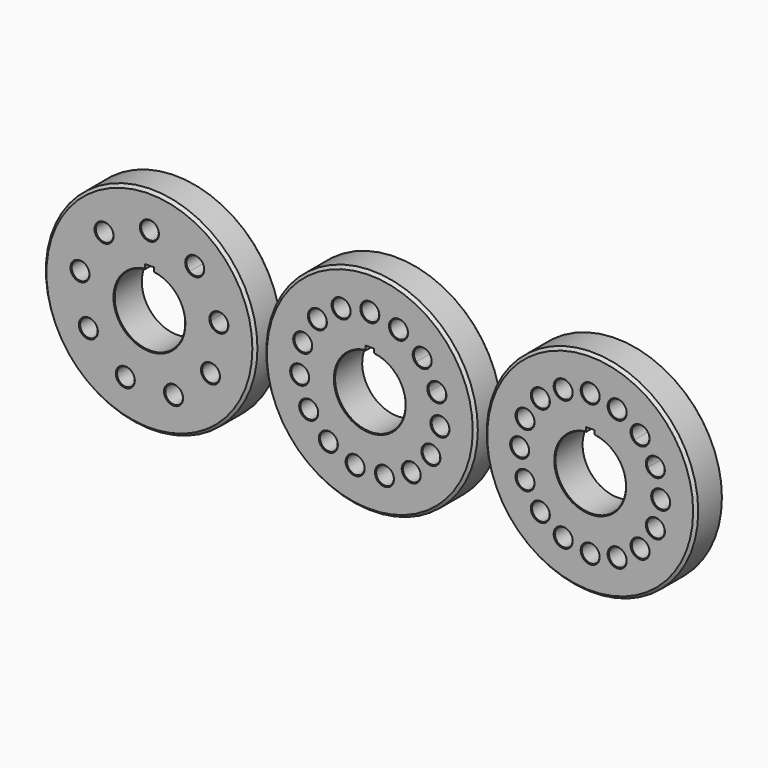
from build123d import *

# Parameters (mm, degrees)
F0_R     = 38.1
F0_R_2   = 3.175
F1_DEPTH = 12.7
F2_SIZE  = 1.016
F3_SIZE  = 0.254


with BuildPart() as f1:
    # F0 (on Front) → F1 (new body)
    with BuildSketch(Plane.XZ):
        with Locations((-79.375, 0)):
            Circle(F0_R)
        with Locations((-88.062312, -23.868193)):
            Circle(F0_R_2, mode=Mode.SUBTRACT)
        with Locations((-70.687688, -23.868193)):
            Circle(F0_R_2, mode=Mode.SUBTRACT)
        with Locations((-101.372045, -12.7)):
            Circle(F0_R_2, mode=Mode.SUBTRACT)
        with Locations((-57.377955, -12.7)):
            Circle(F0_R_2, mode=Mode.SUBTRACT)
        with Locations((-104.389117, 4.410664)):
            Circle(F0_R_2, mode=Mode.SUBTRACT)
        with BuildLine():
            ThreePointArc((-71.211597, 9.728764), (-68.376477, 6.35), (-66.867942, 2.205332))
            ThreePointArc((-66.867942, 2.205332), (-66.723327, 1.106878), (-66.675, 0))
            ThreePointArc((-66.675, 0), (-87.77526, -9.525), (-80.9625, 12.600391))
            Line((-80.9625, 12.600391), (-80.9625, 14.2875))
            Line((-80.9625, 14.2875), (-77.7875, 14.2875))
            Line((-77.7875, 14.2875), (-77.7875, 12.600391))
            ThreePointArc((-77.7875, 12.600391), (-74.292522, 11.63866), (-71.211597, 9.728764))
        make_face(mode=Mode.SUBTRACT)
        with BuildLine():
            ThreePointArc((-57.487648, 3.859331), (-54.637603, 7.573582), (-51.185883, 4.410664))
            ThreePointArc((-51.185883, 4.410664), (-54.084164, 1.247746), (-57.487648, 3.859331))
        make_face(mode=Mode.SUBTRACT)
        with Locations((-95.701805, 19.457529)):
            Circle(F0_R_2, mode=Mode.SUBTRACT)
        with BuildLine():
            ThreePointArc((-59.873195, 19.457529), (-61.706382, 16.580002), (-65.089045, 17.025338))
            ThreePointArc((-65.089045, 17.025338), (-64.390008, 22.335056), (-59.873195, 19.457529))
        make_face(mode=Mode.SUBTRACT)
        with Locations((-79.375, 25.4)):
            Circle(F0_R_2, mode=Mode.SUBTRACT)
        Circle(F0_R)
        with Locations((-5.280957, -24.844949)):
            Circle(F0_R_2, mode=Mode.SUBTRACT)
        with Locations((-14.929745, -20.549032)):
            Circle(F0_R_2, mode=Mode.SUBTRACT)
        with Locations((-21.997045, -12.7)):
            Circle(F0_R_2, mode=Mode.SUBTRACT)
        with Locations((-25.260856, -2.655023)):
            Circle(F0_R_2, mode=Mode.SUBTRACT)
        with Locations((5.280957, -24.844949)):
            Circle(F0_R_2, mode=Mode.SUBTRACT)
        with Locations((14.929745, -20.549032)):
            Circle(F0_R_2, mode=Mode.SUBTRACT)
        with Locations((21.997045, -12.7)):
            Circle(F0_R_2, mode=Mode.SUBTRACT)
        with Locations((25.260856, -2.655023)):
            Circle(F0_R_2, mode=Mode.SUBTRACT)
        with Locations((-24.156836, 7.849032)):
            Circle(F0_R_2, mode=Mode.SUBTRACT)
        with Locations((-18.875879, 16.995917)):
            Circle(F0_R_2, mode=Mode.SUBTRACT)
        with Locations((-10.331111, 23.204055)):
            Circle(F0_R_2, mode=Mode.SUBTRACT)
        with BuildLine():
            ThreePointArc((9.437939, 8.497959), (10.998523, 6.35), (12.078418, 3.924516))
            ThreePointArc((12.078418, 3.924516), (12.543642, 1.986718), (12.7, 0))
            ThreePointArc((12.7, 0), (-8.40026, -9.525), (-1.5875, 12.600391))
            Line((-1.5875, 12.600391), (-1.5875, 14.2875))
            Line((-1.5875, 14.2875), (1.5875, 14.2875))
            Line((1.5875, 14.2875), (1.5875, 12.600391))
            ThreePointArc((1.5875, 12.600391), (5.881969, 11.255773), (9.437939, 8.497959))
        make_face(mode=Mode.SUBTRACT)
        with BuildLine():
            ThreePointArc((21.137231, 6.867903), (23.660156, 10.984942), (27.331836, 7.849032))
            ThreePointArc((27.331836, 7.849032), (24.653515, 4.713121), (21.137231, 6.867903))
        make_face(mode=Mode.SUBTRACT)
        with BuildLine():
            ThreePointArc((22.050879, 16.995917), (20.013697, 14.0318), (16.516394, 14.871428))
            ThreePointArc((16.516394, 14.871428), (17.73806, 19.960035), (22.050879, 16.995917))
        make_face(mode=Mode.SUBTRACT)
        with Locations((10.331111, 23.204055)):
            Circle(F0_R_2, mode=Mode.SUBTRACT)
        with Locations((0, 25.4)):
            Circle(F0_R_2, mode=Mode.SUBTRACT)
        with Locations((79.375, 0)):
            Circle(F0_R)
        with Locations((79.375, -25.4)):
            Circle(F0_R_2, mode=Mode.SUBTRACT)
        with Locations((69.654841, -23.46654)):
            Circle(F0_R_2, mode=Mode.SUBTRACT)
        with Locations((89.095159, -23.46654)):
            Circle(F0_R_2, mode=Mode.SUBTRACT)
        with Locations((55.90846, -9.720159)):
            Circle(F0_R_2, mode=Mode.SUBTRACT)
        with Locations((61.414488, -17.960512)):
            Circle(F0_R_2, mode=Mode.SUBTRACT)
        with Locations((97.335512, -17.960512)):
            Circle(F0_R_2, mode=Mode.SUBTRACT)
        with Locations((102.84154, -9.720159)):
            Circle(F0_R_2, mode=Mode.SUBTRACT)
        with Locations((53.975, 0)):
            Circle(F0_R_2, mode=Mode.SUBTRACT)
        with Locations((55.90846, 9.720159)):
            Circle(F0_R_2, mode=Mode.SUBTRACT)
        with BuildLine():
            ThreePointArc((88.355256, 8.980256), (89.934664, 7.055742), (91.10827, 4.86008))
            ThreePointArc((91.10827, 4.86008), (91.830973, 2.477647), (92.075, 0))
            ThreePointArc((92.075, 0), (70.97474, -9.525), (77.7875, 12.600391))
            Line((77.7875, 12.600391), (77.7875, 14.2875))
            Line((77.7875, 14.2875), (80.9625, 14.2875))
            Line((80.9625, 14.2875), (80.9625, 12.600391))
            ThreePointArc((80.9625, 12.600391), (84.960312, 11.405888), (88.355256, 8.980256))
        make_face(mode=Mode.SUBTRACT)
        with Locations((104.775, 0)):
            Circle(F0_R_2, mode=Mode.SUBTRACT)
        with Locations((61.414488, 17.960512)):
            Circle(F0_R_2, mode=Mode.SUBTRACT)
        with BuildLine():
            ThreePointArc((99.908223, 8.505139), (102.222128, 12.834152), (106.01654, 9.720159))
            ThreePointArc((106.01654, 9.720159), (103.460952, 6.606166), (99.908223, 8.505139))
        make_face(mode=Mode.SUBTRACT)
        with BuildLine():
            ThreePointArc((100.510512, 17.960512), (98.550532, 15.027195), (95.090448, 15.715448))
            ThreePointArc((95.090448, 15.715448), (96.120492, 20.89383), (100.510512, 17.960512))
        make_face(mode=Mode.SUBTRACT)
        with Locations((69.654841, 23.46654)):
            Circle(F0_R_2, mode=Mode.SUBTRACT)
        with Locations((79.375, 25.4)):
            Circle(F0_R_2, mode=Mode.SUBTRACT)
        with Locations((89.095159, 23.46654)):
            Circle(F0_R_2, mode=Mode.SUBTRACT)
    extrude(amount=F1_DEPTH)

    # F2
    f2_edges = [f1.edges().sort_by_distance(p)[0] for p in [
        (-117.475, -12.7, 0),
        (-117.475, 0, 0),
        (-38.1, -12.7, 0),
        (-38.1, 0, 0),
        (41.275, -12.7, 0),
        (41.275, 0, 0),
    ]]
    chamfer(f2_edges, length=F2_SIZE)

    # F3
    f3_edges = [f1.edges().sort_by_distance(p)[0] for p in [
        (-107.564117, -12.7, 4.410664),
        (-98.876805, -12.7, 19.457529),
        (-82.55, -12.7, 25.4),
        (-66.223195, -12.7, 19.457529),
        (-57.535883, -12.7, 4.410664),
        (-60.552955, -12.7, -12.7),
        (-73.862688, -12.7, -23.868193),
        (-91.237312, -12.7, -23.868193),
        (-104.547045, -12.7, -12.7),
        (-3.175, -12.7, 25.4),
        (7.156111, -12.7, 23.204055),
        (15.700879, -12.7, 16.995917),
        (20.981836, -12.7, 7.849032),
        (22.085856, -12.7, -2.655023),
        (18.822045, -12.7, -12.7),
        (11.754745, -12.7, -20.549032),
        (2.105957, -12.7, -24.844949),
        (-8.455957, -12.7, -24.844949),
        (-18.104745, -12.7, -20.549032),
        (-25.172045, -12.7, -12.7),
        (-28.435856, -12.7, -2.655023),
        (-27.331836, -12.7, 7.849032),
        (-22.050879, -12.7, 16.995917),
        (-13.506111, -12.7, 23.204055),
        (76.2, -12.7, 25.4),
        (85.920159, -12.7, 23.46654),
        (94.160512, -12.7, 17.960512),
        (99.66654, -12.7, 9.720159),
        (101.6, -12.7, 0),
        (99.66654, -12.7, -9.720159),
        (94.160512, -12.7, -17.960512),
        (85.920159, -12.7, -23.46654),
        (76.2, -12.7, -25.4),
        (66.479841, -12.7, -23.46654),
        (58.239488, -12.7, -17.960512),
        (52.73346, -12.7, -9.720159),
        (50.8, -12.7, 0),
        (52.73346, -12.7, 9.720159),
        (58.239488, -12.7, 17.960512),
        (66.479841, -12.7, 23.46654),
        (-91.237312, 0, -23.868193),
        (-73.862688, 0, -23.868193),
        (-60.552955, 0, -12.7),
        (-57.535883, 0, 4.410664),
        (-66.223195, 0, 19.457529),
        (-82.55, 0, 25.4),
        (-98.876805, 0, 19.457529),
        (-107.564117, 0, 4.410664),
        (-104.547045, 0, -12.7),
        (-8.455957, 0, -24.844949),
        (2.105957, 0, -24.844949),
        (11.754745, 0, -20.549032),
        (18.822045, 0, -12.7),
        (22.085856, 0, -2.655023),
        (20.981836, 0, 7.849032),
        (15.700879, 0, 16.995917),
        (7.156111, 0, 23.204055),
        (-3.175, 0, 25.4),
        (-13.506111, 0, 23.204055),
        (-22.050879, 0, 16.995917),
        (-27.331836, 0, 7.849032),
        (-28.435856, 0, -2.655023),
        (-25.172045, 0, -12.7),
        (-18.104745, 0, -20.549032),
        (66.479841, 0, -23.46654),
        (76.2, 0, -25.4),
        (85.920159, 0, -23.46654),
        (94.160512, 0, -17.960512),
        (99.66654, 0, -9.720159),
        (101.6, 0, 0),
        (99.66654, 0, 9.720159),
        (94.160512, 0, 17.960512),
        (85.920159, 0, 23.46654),
        (76.2, 0, 25.4),
        (66.479841, 0, 23.46654),
        (58.239488, 0, 17.960512),
        (52.73346, 0, 9.720159),
        (50.8, 0, 0),
        (52.73346, 0, -9.720159),
        (58.239488, 0, -17.960512),
        (-79.375, -12.7, -12.7),
        (0, -12.7, -12.7),
        (79.375, -12.7, -12.7),
        (-79.375, 0, -12.7),
        (0, 0, -12.7),
        (79.375, 0, -12.7),
    ]]
    chamfer(f3_edges, length=F3_SIZE)


solid = f1.part
